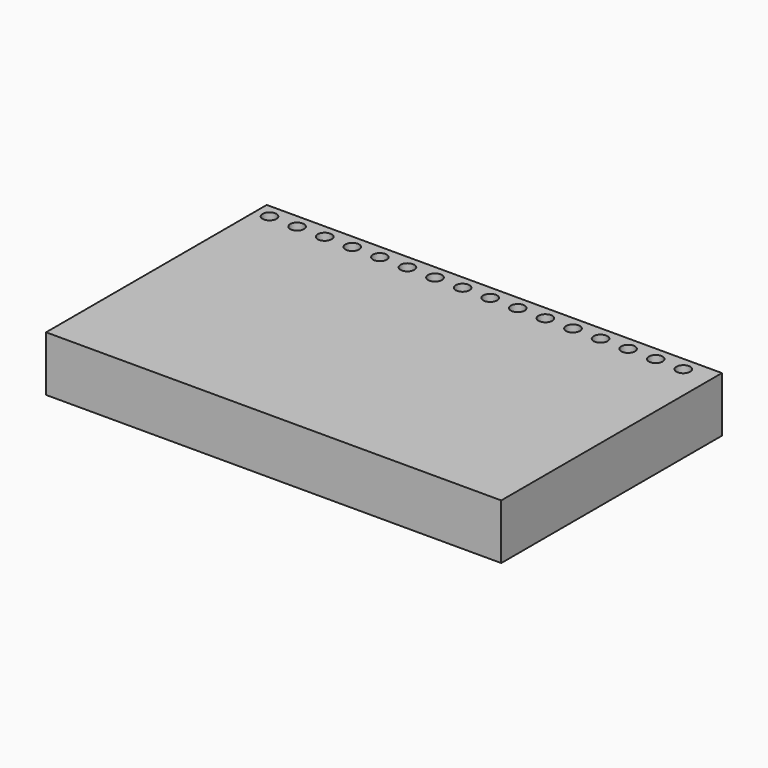
from build123d import *

# Parameters (mm, degrees)
F0_W     = 209.55
F0_H     = 25.4
F1_DEPTH = 127
F3_D     = 6.35


with BuildPart() as f1:
    # F0 (on Front) → F1 (new body)
    with BuildSketch(Plane.XZ):
        with Locations((104.775, 12.7)):
            Rectangle(F0_W, F0_H)
    extrude(amount=F1_DEPTH)

    # F3 (through all)
    with Locations(Plane.XY.offset(25.4)):
        with Locations((6.35, -6.35), (19.05, -6.35), (31.75, -6.35), (44.45, -6.35), (57.15, -6.35), (69.85, -6.35), (82.55, -6.35), (95.25, -6.35), (107.95, -6.35), (120.65, -6.35), (133.35, -6.35), (146.05, -6.35), (158.75, -6.35), (171.45, -6.35), (184.15, -6.35), (196.85, -6.35)):
            Hole(F3_D / 2)


solid = f1.part
